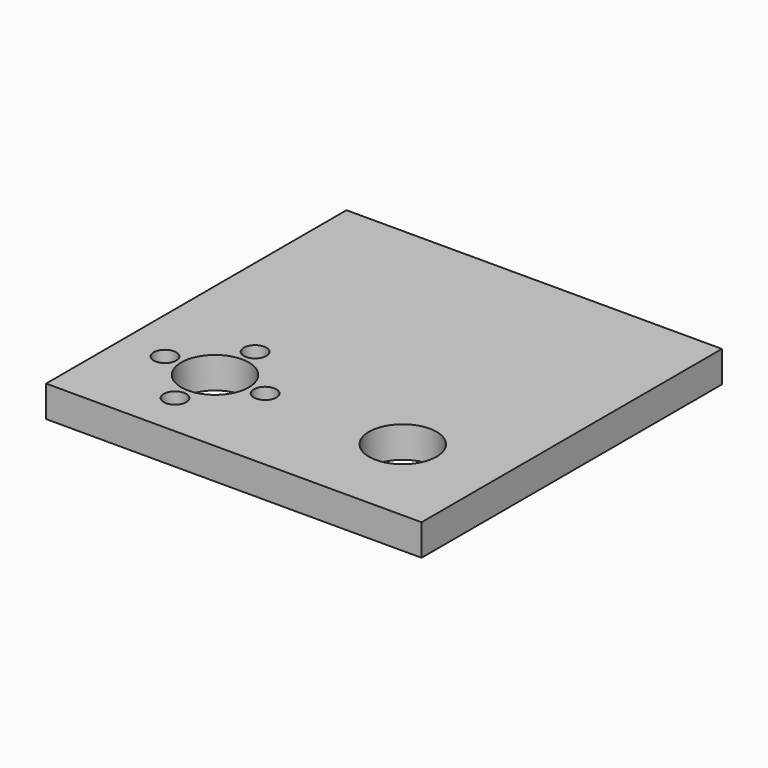
from build123d import *

# Parameters (mm, degrees)
SKETCH_W      = 60
SKETCH_H      = 60
PAD_DEPTH     = 5
SKETCH001_R   = 1.8
SKETCH001_R_2 = 5.4
POCKET_DEPTH  = 15


with BuildPart() as part:
    # Sketch → Pad (new body)
    with BuildSketch(Plane.XY):
        with Locations((15, 15)):
            Rectangle(SKETCH_W, SKETCH_H)
    extrude(amount=PAD_DEPTH)

    # Sketch001 (on Face6 of Pad) → Pocket (cut)
    with BuildSketch(Plane.XY.offset(5)):
        with Locations((-8, 0)):
            Circle(SKETCH001_R)
        with Locations((0, -8)):
            Circle(SKETCH001_R)
        with Locations((0, 8)):
            Circle(SKETCH001_R)
        with Locations((8, 0)):
            Circle(SKETCH001_R)
        Circle(SKETCH001_R_2)
        with Locations((30, 0)):
            Circle(SKETCH001_R_2)
    extrude(amount=-POCKET_DEPTH, mode=Mode.SUBTRACT)


solid = part.part
